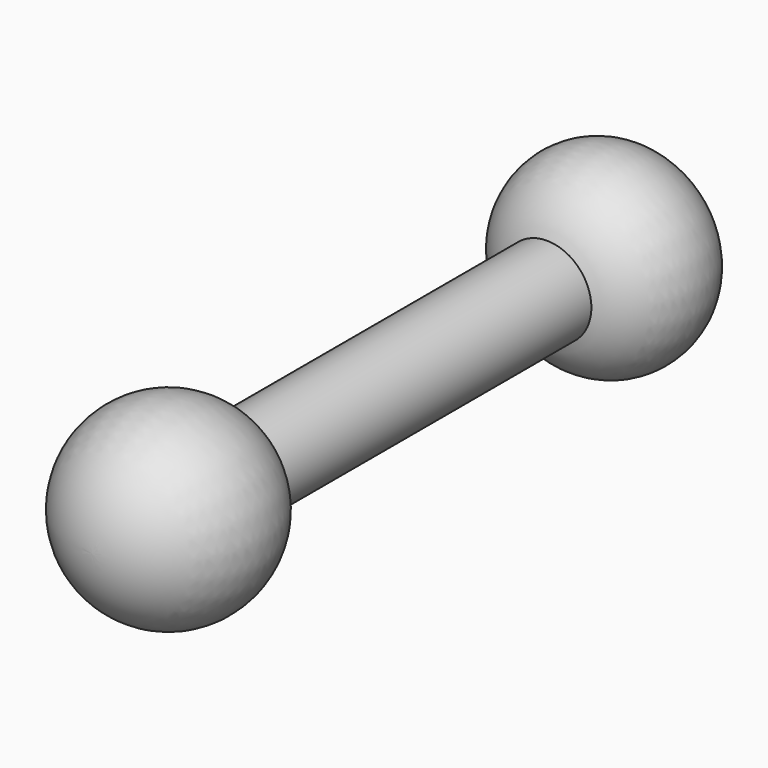
from build123d import *


with BuildPart() as f1:
    # F0 (on Top) → F1 (revolve)
    with BuildSketch(Plane.XY):
        with BuildLine():
            Line((-36.482055, 0), (-36.482055, -16.607329))
            ThreePointArc((-36.482055, -16.607329), (-38.54869, -21.205519), (-34.579759, -24.313882))
            Line((-34.579759, -24.313882), (-34.579759, 6.106439))
            ThreePointArc((-34.579759, 6.106439), (-38.584126, 4.004367), (-36.482055, 0))
        make_face()
    revolve(axis=Axis((-34.579759, -9.103722, 0), (0, 1, 0)))


solid = f1.part
